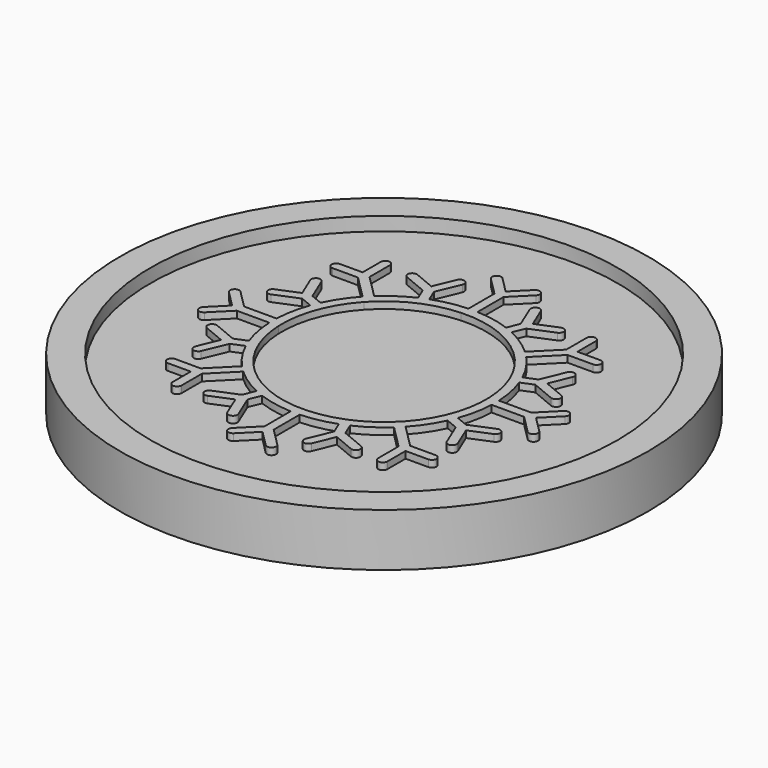
from build123d import *

# Parameters (mm, degrees)
SKETCH_R           = 11.625
PAD_DEPTH          = 2.33
SKETCH001_R        = 10.284193
POCKET_DEPTH       = 0.6
PAD001_DEPTH       = 0.3
POLARPATTERN_COUNT = 8


with BuildPart() as part:
    # Sketch → Pad (new body)
    with BuildSketch(Plane.XY):
        Circle(SKETCH_R)
    extrude(amount=PAD_DEPTH)

    # Sketch001 (on Face3 of Pad) → Pocket (cut)
    with BuildSketch(Plane.XY.offset(2.33)):
        Circle(SKETCH001_R)
    extrude(amount=-POCKET_DEPTH, mode=Mode.SUBTRACT)

    # Sketch002 (on Face5 of Pocket) → Pad001 (join)
    with BuildSketch(Plane.XY.offset(1.73)):
        with BuildLine():
            Line((-0.2, 4.495553), (-0.2, 6.326262))
            Line((-0.2, 6.326262), (-0.989949, 7.116211))
            ThreePointArc((-0.707107, 7.399054), (-0.989949, 7.399054), (-0.989949, 7.116211))
            Line((-0.707107, 7.399054), (0, 6.691947))
            Line((0, 6.691947), (0.707107, 7.399054))
            ThreePointArc((0.989949, 7.116211), (0.989949, 7.399054), (0.707107, 7.399054))
            Line((0.989949, 7.116211), (0.2, 6.326262))
            Line((0.2, 6.326262), (0.2, 4.895917))
            ThreePointArc((1.68881, 4.599774), (0.955943, 4.805848), (0.2, 4.895917))
            Line((1.68881, 4.599774), (1.909463, 5.132477))
            Line((1.909463, 5.132477), (1.481946, 6.164596))
            ThreePointArc((1.851498, 6.31767), (1.590185, 6.425909), (1.481946, 6.164596))
            Line((1.851498, 6.31767), (2.234181, 5.39379))
            Line((2.234181, 5.39379), (3.158061, 5.776474))
            ThreePointArc((3.311134, 5.406922), (3.419373, 5.668234), (3.158061, 5.776474))
            Line((3.311134, 5.406922), (2.279015, 4.979404))
            Line((2.279015, 4.979404), (2.058362, 4.446701))
            ThreePointArc((4.352946, 2.249858), (3.38862, 3.539386), (2.058362, 4.446701))
            Line((4.352946, 2.249858), (3.997604, 2.066196))
            ThreePointArc((3.997604, 2.066196), (2.254083, 3.894754), (-0.2, 4.495553))
        make_face()
    pad001 = extrude(amount=PAD001_DEPTH)

    # PolarPattern: Pad001 ×8 about axis
    polarpattern_axis = Axis((0, 0, 1.73), (0, 0, 1))
    for i in range(1, POLARPATTERN_COUNT):
        add(pad001.rotate(polarpattern_axis, i * 360 / POLARPATTERN_COUNT))


with BuildPart() as part_1:
    # Body placement: moved
    add(part.part.moved(Location((0, 0, -2))))


solid = part_1.part
